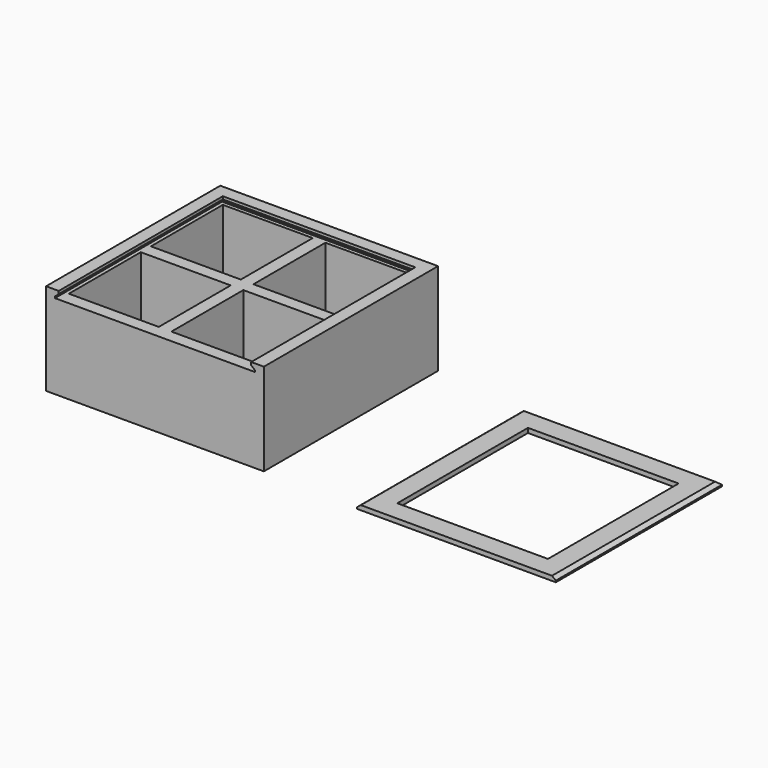
from build123d import *

# Parameters (mm, degrees)
F0_W      = 86
F0_H      = 86
F1_DEPTH  = 1.2
F2_DEPTH  = 33.4
F4_DEPTH  = 3
F0_W_2    = 78.5
F0_H_2    = 82
F9_DEPTH  = 1.8
F13_W     = 59.5
F13_H     = 64.5
F14_DEPTH = 1.801


with BuildPart() as f1:
    # F0 (on Top) → F1 (new body)
    with BuildSketch(Plane.XY):
        Rectangle(F0_W, F0_H)
        Polygon((-2.5, -25), (-2.5, -38), (-15.5, -38), (-25, -38), (-38, -38), (-38, -25), (-38, -15.5), (-38, -2.5), (-25, -2.5), (-15.5, -2.5), (-2.5, -2.5), (-2.5, -15.5), align=None, mode=Mode.SUBTRACT)
        Polygon((2.5, -15.5), (2.5, -2.5), (15.5, -2.5), (25, -2.5), (38, -2.5), (38, -15.5), (38, -25), (38, -38), (25, -38), (15.5, -38), (2.5, -38), (2.5, -25), align=None, mode=Mode.SUBTRACT)
        Polygon((-15.5, 38), (-2.5, 38), (-2.5, 25), (-2.5, 15.5), (-2.5, 2.5), (-15.5, 2.5), (-25, 2.5), (-38, 2.5), (-38, 15.5), (-38, 25), (-38, 38), (-25, 38), align=None, mode=Mode.SUBTRACT)
        Polygon((2.5, 25), (2.5, 38), (15.5, 38), (25, 38), (38, 38), (38, 25), (38, 15.5), (38, 2.5), (25, 2.5), (15.5, 2.5), (2.5, 2.5), (2.5, 15.5), align=None, mode=Mode.SUBTRACT)
        Polygon((-38, 25), (-25, 38), (-38, 38), align=None)
        Polygon((-25, 2.5), (-38, 15.5), (-38, 2.5), align=None)
        Polygon((-2.5, 2.5), (-2.5, 15.5), (-15.5, 2.5), align=None)
        Polygon((-2.5, 25), (-2.5, 38), (-15.5, 38), align=None)
        Polygon((15.5, 38), (2.5, 38), (2.5, 25), align=None)
        Polygon((38, 38), (25, 38), (38, 25), align=None)
        Polygon((38, 2.5), (38, 15.5), (25, 2.5), align=None)
        Polygon((15.5, 2.5), (2.5, 15.5), (2.5, 2.5), align=None)
        Polygon((-38, -2.5), (-38, -15.5), (-25, -2.5), align=None)
        Polygon((-15.5, -2.5), (-2.5, -15.5), (-2.5, -2.5), align=None)
        Polygon((-38, -38), (-25, -38), (-38, -25), align=None)
        Polygon((-15.5, -38), (-2.5, -38), (-2.5, -25), align=None)
        Polygon((15.5, -38), (2.5, -25), (2.5, -38), align=None)
        Polygon((15.5, -2.5), (2.5, -2.5), (2.5, -15.5), align=None)
        Polygon((38, -2.5), (25, -2.5), (38, -15.5), align=None)
        Polygon((38, -38), (38, -25), (25, -38), align=None)
    extrude(amount=F1_DEPTH)

    # F0 (on Top) → F2 (join)
    with BuildSketch(Plane.XY):
        Rectangle(F0_W, F0_H)
        Polygon((-2.5, -25), (-2.5, -38), (-15.5, -38), (-25, -38), (-38, -38), (-38, -25), (-38, -15.5), (-38, -2.5), (-25, -2.5), (-15.5, -2.5), (-2.5, -2.5), (-2.5, -15.5), align=None, mode=Mode.SUBTRACT)
        Polygon((2.5, -15.5), (2.5, -2.5), (15.5, -2.5), (25, -2.5), (38, -2.5), (38, -15.5), (38, -25), (38, -38), (25, -38), (15.5, -38), (2.5, -38), (2.5, -25), align=None, mode=Mode.SUBTRACT)
        Polygon((-15.5, 38), (-2.5, 38), (-2.5, 25), (-2.5, 15.5), (-2.5, 2.5), (-15.5, 2.5), (-25, 2.5), (-38, 2.5), (-38, 15.5), (-38, 25), (-38, 38), (-25, 38), align=None, mode=Mode.SUBTRACT)
        Polygon((2.5, 25), (2.5, 38), (15.5, 38), (25, 38), (38, 38), (38, 25), (38, 15.5), (38, 2.5), (25, 2.5), (15.5, 2.5), (2.5, 2.5), (2.5, 15.5), align=None, mode=Mode.SUBTRACT)
    extrude(amount=F2_DEPTH)

    # F3 (on face) → F4 (join)
    with BuildSketch(Plane.XY.offset(33.4)):
        Polygon((-43, 43), (-43, -43), (-38, -43), (-38, -38), (-38, -2.5), (-38, 2.5), (-38, 38), (-2.5, 38), (2.5, 38), (38, 38), (38, 2.5), (38, -2.5), (38, -38), (38, -43), (43, -43), (43, 43), align=None)
    extrude(amount=F4_DEPTH)

    # F11: sweep along a path in F11_path
    with BuildLine(Plane(origin=(-38, -43, 35.3), x_dir=(0, -1, 0), z_dir=(0, 0, -1))) as f11_path:
        Line((0, 0), (-81, 0))
        Line((-81, 0), (-81, -76))
        Line((-81, -76), (0, -76))
    # F5 (on face) → F11 (sweep, cut)
    with BuildSketch(Plane.XZ.offset(43)):
        Polygon((-39.5, 34), (-39.5, 33.4), (-38, 33.4), (-38, 35.3), align=None)
    sweep(path=f11_path.line, transition=Transition.RIGHT, mode=Mode.SUBTRACT)


with BuildPart() as f9:
    # F0 (on Top) → F9 (new body)
    with BuildSketch(Plane.XY):
        with Locations((120.3376897573, -3.6101650596)):
            Rectangle(F0_W_2, F0_H_2)
    extrude(amount=F9_DEPTH)

    # F12: sweep along a path in F0
    with BuildLine(Plane.XY) as f12_path:
        Line((81.0876897573, -44.6101650596), (81.0876897573, 37.3898349404))
        Line((81.0876897573, 37.3898349404), (159.5876897573, 37.3898349404))
        Line((159.5876897573, 37.3898349404), (159.5876897573, -44.6101650596))
    # F10 (on face) → F12 (sweep, cut)
    with BuildSketch(Plane.XZ.offset(44.6101650596)):
        Polygon((81.0876897573, 1.8), (81.0876897573, 0.6), (82.5876897573, 1.8), align=None)
    sweep(path=f12_path.line, transition=Transition.RIGHT, mode=Mode.SUBTRACT)

    # F13 (on face) → F14 (cut, through all)
    with BuildSketch(Plane.XY.offset(1.8)):
        with Locations((120.3376897573, -4.3601650596)):
            Rectangle(F13_W, F13_H)
    extrude(amount=-F14_DEPTH, mode=Mode.SUBTRACT)


solid = Compound([f1.part, f9.part])
